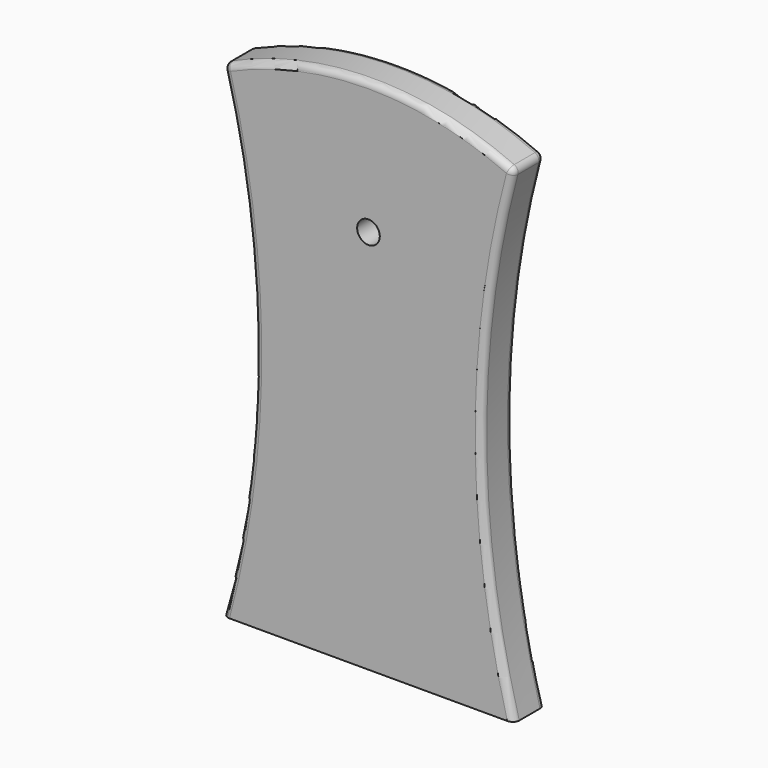
from build123d import *

# Parameters (mm, degrees)
F0_R     = 3.5
F1_DEPTH = 12
F2_R     = 2


with BuildPart() as f1:
    # F0 (on Front) → F1 (new body)
    with BuildSketch(Plane.XZ):
        with BuildLine():
            ThreePointArc((-95.075279, 90.171108), (-85.031423, 15.171108), (-95.075279, -59.828892))
            Line((-95.075279, -59.828892), (-5.075279, -59.828892))
            ThreePointArc((-5.075279, -59.828892), (-15.119136, 15.171108), (-5.075279, 90.171108))
            ThreePointArc((-5.075279, 90.171108), (-50.075279, 100.171108), (-95.075279, 90.171108))
        make_face()
        with Locations((-50.075279, 59.171108)):
            Circle(F0_R, mode=Mode.SUBTRACT)
    extrude(amount=F1_DEPTH)

    # F2
    f2_edges = [f1.edges().sort_by_distance(p)[0] for p in [
        (-50.075279, -12, 100.171108),
        (-50.075279, 0, 100.171108),
        (-15.119136, -12, 15.171108),
        (-15.119136, 0, 15.171108),
        (-5.075279, -6, 90.171108),
        (-95.075279, -6, 90.171108),
        (-85.031423, 0, 15.171108),
        (-85.031423, -12, 15.171108),
    ]]
    fillet(f2_edges, radius=F2_R)


solid = f1.part
